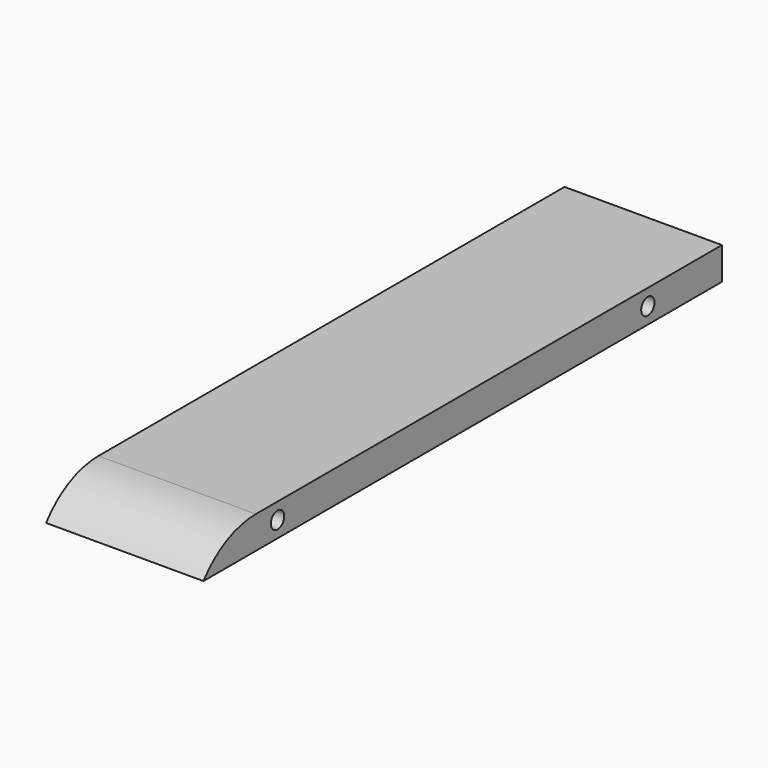
from build123d import *

# Parameters (mm, degrees)
F1_DEPTH = 17
F2_R     = 1.8
F3_DEPTH = 7
F4_R     = 1.8
F5_DEPTH = 7
F6_R     = 1.8
F7_DEPTH = 12


with BuildPart() as f1:
    # F0 (on Right) → F1 (new body, symmetric)
    with BuildSketch(Plane.YZ):
        with BuildLine():
            Line((-140, 0), (0, 0))
            Line((0, 0), (0, 7))
            Line((0, 7), (-125.860693, 7))
            ThreePointArc((-125.860693, 7), (-133.749292, 5.15419), (-140, 0))
        make_face()
    extrude(amount=F1_DEPTH, both=True)

    # F2 (on face) → F3 (cut)
    with BuildSketch(Plane.YZ.offset(17)):
        with Locations((-20, 3.5)):
            Circle(F2_R)
        with Locations((-120, 3.5)):
            Circle(F2_R)
    extrude(amount=-F3_DEPTH, mode=Mode.SUBTRACT)

    # F4 (on face) → F5 (cut)
    with BuildSketch(Plane(origin=(-17, 0, 0), x_dir=(0, -1, 0), z_dir=(-1, 0, 0))):
        with Locations((20, 3.5)):
            Circle(F4_R)
        with Locations((120, 3.5)):
            Circle(F4_R)
    extrude(amount=-F5_DEPTH, mode=Mode.SUBTRACT)

    # F6 (on face) → F7 (cut)
    with BuildSketch(Plane(origin=(0, 0, 0), x_dir=(-1, 0, 0), z_dir=(0, 1, 0))):
        with Locations((0, 3.5)):
            Circle(F6_R)
    extrude(amount=-F7_DEPTH, mode=Mode.SUBTRACT)


solid = f1.part
